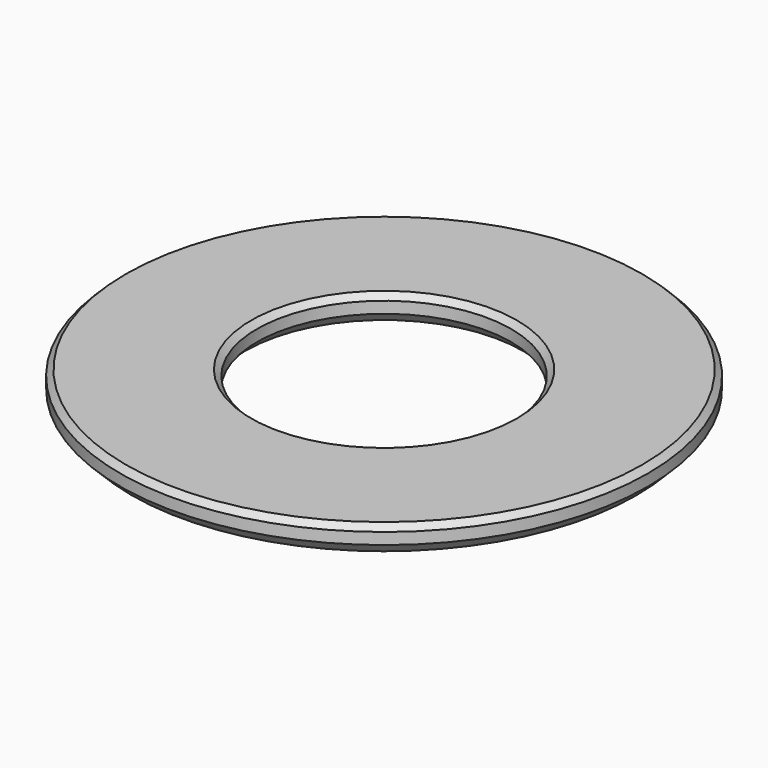
from build123d import *

# Parameters (mm, degrees)
F1_R     = 9.185
F1_R_2   = 4.425
F2_DEPTH = 1
F5_SIZE  = 0.4
F6_SIZE  = 0.2
F7_SIZE  = 0.4
F8_SIZE  = 0.2


with BuildPart() as f2:
    # F1 (on Top) → F2 (new body)
    with BuildSketch(Plane.XY):
        Circle(F1_R)
        Circle(F1_R_2, mode=Mode.SUBTRACT)
    extrude(amount=F2_DEPTH)

    # F5
    f5_edges = [f2.edges().sort_by_distance(p)[0] for p in [
        (-9.185, 0, 0),
    ]]
    chamfer(f5_edges, length=F5_SIZE)

    # F6
    f6_edges = [f2.edges().sort_by_distance(p)[0] for p in [
        (-9.185, 0, 1),
    ]]
    chamfer(f6_edges, length=F6_SIZE)

    # F7
    f7_edges = [f2.edges().sort_by_distance(p)[0] for p in [
        (-4.425, 0, 0),
    ]]
    chamfer(f7_edges, length=F7_SIZE)

    # F8
    f8_edges = [f2.edges().sort_by_distance(p)[0] for p in [
        (-4.425, 0, 1),
    ]]
    chamfer(f8_edges, length=F8_SIZE)


solid = f2.part
